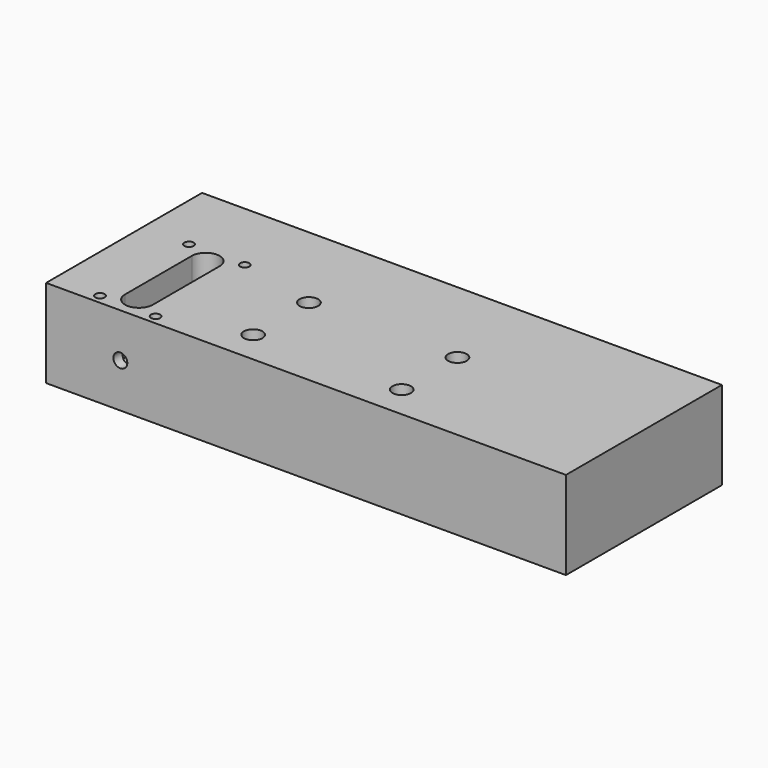
from build123d import *

# Parameters (mm, degrees)
F0_W     = 177.8
F0_H     = 66.675
F1_DEPTH = 30.1752
F2_R     = 1.5875
F3_DEPTH = 3.175
F5_DEPTH = 19.05
F6_R     = 3.175
F7_DEPTH = 6.35
F8_R     = 2.3876
F9_DEPTH = 6.35


with BuildPart() as f1:
    # F0 (on Top) → F1 (new body)
    with BuildSketch(Plane.XY):
        Rectangle(F0_W, F0_H)
    extrude(amount=F1_DEPTH)

    # F2 (on face) → F3 (cut)
    with BuildSketch(Plane.XY.offset(30.1752)):
        with Locations((-73.025, 7.9375)):
            Circle(F2_R)
        with Locations((-53.975, 7.9375)):
            Circle(F2_R)
        with Locations((-53.975, -30.1625)):
            Circle(F2_R)
        with Locations((-73.025, -30.1625)):
            Circle(F2_R)
    extrude(amount=-F3_DEPTH, mode=Mode.SUBTRACT)

    # F4 (on face) → F5 (cut)
    with BuildSketch(Plane.XY.offset(30.1752)):
        with BuildLine():
            Line((-58.7375, -25.3873), (-58.7375, 3.1623))
            ThreePointArc((-58.7375, 3.1623), (-63.5, 7.9248), (-68.2625, 3.1623))
            Line((-68.2625, 3.1623), (-68.2625, -25.3873))
            ThreePointArc((-68.2625, -25.3873), (-63.5, -30.1498), (-58.7375, -25.3873))
        make_face()
    extrude(amount=-F5_DEPTH, mode=Mode.SUBTRACT)

    # F6 (on face) → F7 (cut)
    with BuildSketch(Plane.XY.offset(30.1752)):
        with Locations((-26.9748, 1.6129)):
            Circle(F6_R)
        with Locations((23.8252, 1.6129)):
            Circle(F6_R)
        with Locations((23.8252, -22.2123)):
            Circle(F6_R)
        with Locations((-26.9748, -22.2123)):
            Circle(F6_R)
    extrude(amount=-F7_DEPTH, mode=Mode.SUBTRACT)

    # F8 (on face) → F9 (cut)
    with BuildSketch(Plane.XZ.offset(33.3375)):
        with Locations((-63.5, 15.0876)):
            Circle(F8_R)
    extrude(amount=-F9_DEPTH, mode=Mode.SUBTRACT)


solid = f1.part
